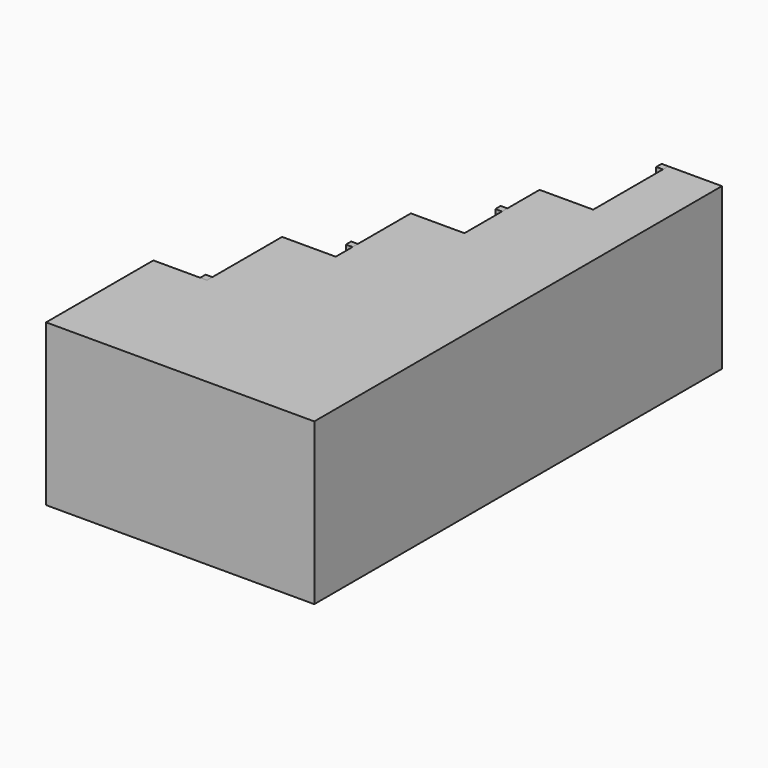
from build123d import *

# Parameters (mm, degrees)
F0_W     = 152.4
F0_H     = 381
F1_DEPTH = 457.2
F2_W     = 19.05
F2_H     = 19.05
F3_DEPTH = 25.4


with BuildPart() as f1:
    # F0 (on Top) → F1 (new body)
    with BuildSketch(Plane.XY):
        Polygon((-466.7380232334, 397.3943232992), (-466.7380232334, -783.7056767008), (-314.3380232334, -783.7056767008), (-314.3380232334, 664.0943232992), (-466.7380232334, 664.0943232992), align=None)
        Polygon((-619.1380232334, 130.6943232992), (-619.1380232334, -783.7056767008), (-466.7380232334, -783.7056767008), (-466.7380232334, 397.3943232992), (-619.1380232334, 397.3943232992), align=None)
        Polygon((-771.5380232334, -136.0056767008), (-771.5380232334, -783.7056767008), (-619.1380232334, -783.7056767008), (-619.1380232334, 130.6943232992), (-771.5380232334, 130.6943232992), align=None)
        Polygon((-923.9380232334, -136.0056767008), (-923.9380232334, -402.7056767008), (-923.9380232334, -783.7056767008), (-771.5380232334, -783.7056767008), (-771.5380232334, -136.0056767008), align=None)
        with Locations((-1000.1380232334, -593.2056767008)):
            Rectangle(F0_W, F0_H)
    extrude(amount=F1_DEPTH)


with BuildPart() as f3:
    # F2 (on face) → F3 (new body)
    with BuildSketch(Plane.XY.offset(457.2)):
        with Locations((-933.4630232334, -393.1806767008)):
            Rectangle(F2_W, F2_H)
    extrude(amount=-F3_DEPTH)


with BuildPart() as f3b:
    # F2 (on face) → F3, piece 2 (new body)
    with BuildSketch(Plane.XY.offset(457.2)):
        with Locations((-781.0630232334, -66.9118548989)):
            Rectangle(F2_W, F2_H)
    extrude(amount=-F3_DEPTH)


with BuildPart() as f3c:
    # F2 (on face) → F3, piece 3 (new body)
    with BuildSketch(Plane.XY.offset(457.2)):
        with Locations((-628.6630232334, 273.5693232992)):
            Rectangle(F2_W, F2_H)
    extrude(amount=-F3_DEPTH)


with BuildPart() as f3d:
    # F2 (on face) → F3, piece 4 (new body)
    with BuildSketch(Plane.XY.offset(457.2)):
        with Locations((-476.2630232334, 654.5693232992)):
            Rectangle(F2_W, F2_H)
    extrude(amount=-F3_DEPTH)


solid = Compound([f1.part, f3.part, f3b.part, f3c.part, f3d.part])
